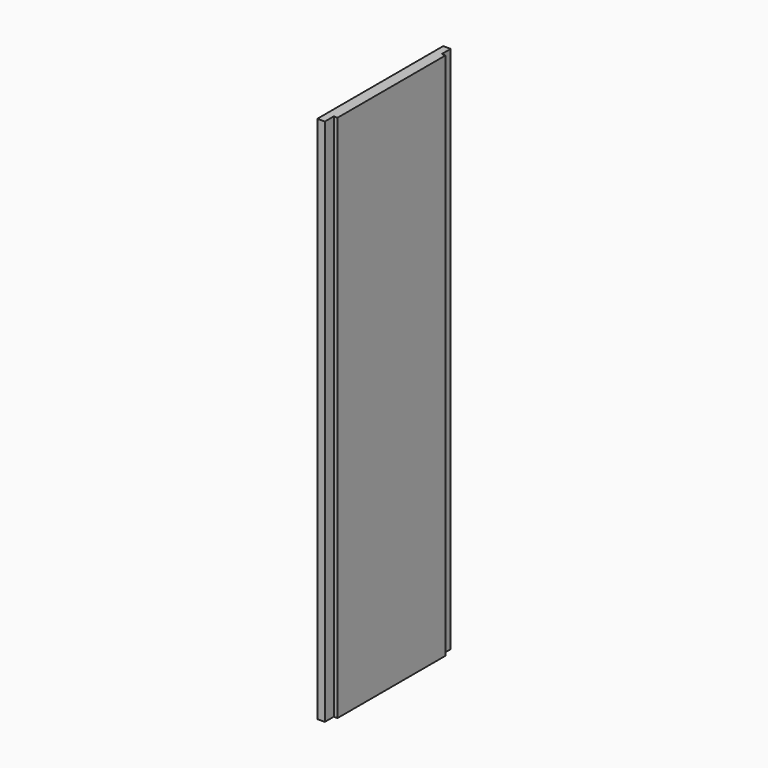
from build123d import *

# Parameters (mm, degrees)
F0_W     = 88.9
F0_H     = 298.45
F2_DEPTH = 4.233418
F1_W     = 76.2
F1_H     = 298.45
F3_DEPTH = 2.116455


with BuildPart() as f2:
    # F0 (on Right) → F2 (new body)
    with BuildSketch(Plane.YZ):
        with Locations((44.45, 149.225)):
            Rectangle(F0_W, F0_H)
    extrude(amount=-F2_DEPTH)

    # F1 (on Right) → F3 (join)
    with BuildSketch(Plane.YZ):
        with Locations((44.45, 149.225)):
            Rectangle(F1_W, F1_H)
    extrude(amount=F3_DEPTH)


solid = f2.part
